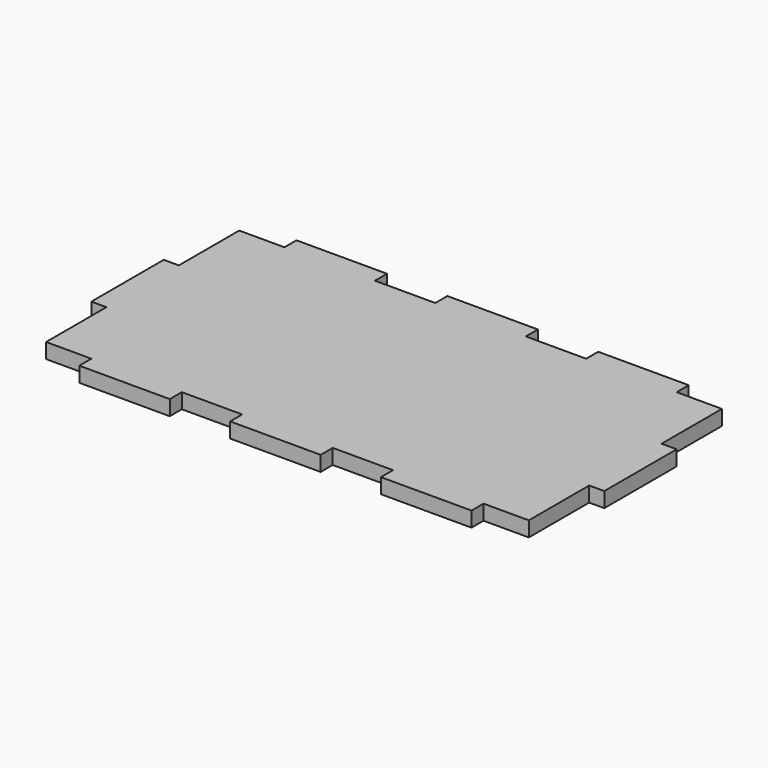
from build123d import *

# Parameters (mm, degrees)
F0_W     = 12.7
F0_H     = 76.2
F0_W_2   = 76.2
F0_H_2   = 12.7
F1_DEPTH = 12.7


with BuildPart() as f1:
    # F0 (on Top) → F1 (new body)
    with BuildSketch(Plane.XY):
        Polygon((-165.1, 101.6), (-203.2, 101.6), (-203.2, 38.1), (-190.5, 38.1), (-190.5, -38.1), (-203.2, -38.1), (-203.2, -101.6), (-165.1, -101.6), (-165.1, -88.9), (-88.9, -88.9), (-88.9, -101.6), (-38.1, -101.6), (-38.1, -88.9), (38.1, -88.9), (38.1, -101.6), (88.9, -101.6), (88.9, -88.9), (165.1, -88.9), (165.1, -101.6), (203.2, -101.6), (203.2, -38.1), (190.5, -38.1), (190.5, 38.1), (203.2, 38.1), (203.2, 101.6), (165.1, 101.6), (165.1, 88.9), (88.9, 88.9), (88.9, 101.6), (38.1, 101.6), (38.1, 88.9), (-38.1, 88.9), (-38.1, 101.6), (-88.9, 101.6), (-88.9, 88.9), (-165.1, 88.9), align=None)
        with Locations((-196.85, 0)):
            Rectangle(F0_W, F0_H)
        with Locations((-209.55, 0)):
            Rectangle(F0_W, F0_H)
        with Locations((0, 107.95)):
            Rectangle(F0_W_2, F0_H_2)
        with Locations((0, 95.25)):
            Rectangle(F0_W_2, F0_H_2)
        with Locations((0, -107.95)):
            Rectangle(F0_W_2, F0_H_2)
        with Locations((0, -95.25)):
            Rectangle(F0_W_2, F0_H_2)
        with Locations((196.85, 0)):
            Rectangle(F0_W, F0_H)
        with Locations((209.55, 0)):
            Rectangle(F0_W, F0_H)
        with Locations((-127, 107.95)):
            Rectangle(F0_W_2, F0_H_2)
        with Locations((-127, 95.25)):
            Rectangle(F0_W_2, F0_H_2)
        with Locations((127, 95.25)):
            Rectangle(F0_W_2, F0_H_2)
        with Locations((127, 107.95)):
            Rectangle(F0_W_2, F0_H_2)
        with Locations((127, -95.25)):
            Rectangle(F0_W_2, F0_H_2)
        with Locations((127, -107.95)):
            Rectangle(F0_W_2, F0_H_2)
        with Locations((-127, -95.25)):
            Rectangle(F0_W_2, F0_H_2)
        with Locations((-127, -107.95)):
            Rectangle(F0_W_2, F0_H_2)
    extrude(amount=F1_DEPTH)


solid = f1.part
